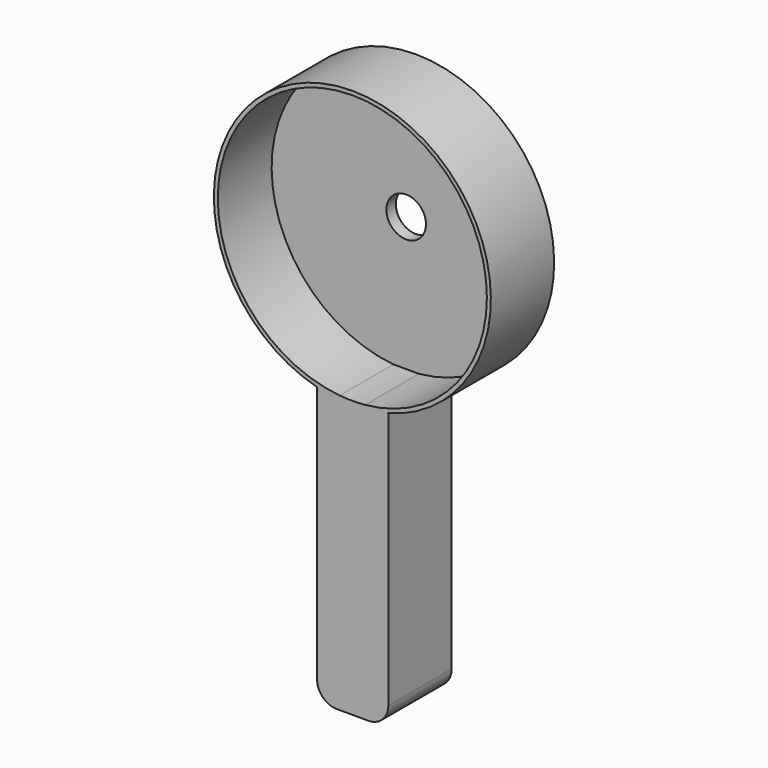
from build123d import *

# Parameters (mm, degrees)
F1_DEPTH = 20
F2_DEPTH = 20
F3_DEPTH = 3
F4_R     = 5
F5_DEPTH = 100


with BuildPart() as f1:
    # F0 (on Front) → F1 (new body)
    with BuildSketch(Plane.XZ):
        with BuildLine():
            ThreePointArc((-42.2376775657, 0.9527799487), (-23.4282681394, 13.4322820603), (-16.1492416263, 34.7992572542))
            ThreePointArc((-16.1492416263, 34.7992572542), (-72.5162168202, 62.5202307411), (-60.0608056868, 0.9527799487))
            Line((-60.0608056868, 0.9527799487), (-54.3766204398, 0.9527799487))
            ThreePointArc((-54.3766204398, 0.9527799487), (-74.0213766418, 59.9560742196), (-17.1492416263, 34.7992572542))
            ThreePointArc((-17.1492416263, 34.7992572542), (-25.9924246609, 11.9271222387), (-47.9218628128, 0.9527799487))
            Line((-47.9218628128, 0.9527799487), (-42.2376775657, 0.9527799487))
        make_face()
    extrude(amount=F1_DEPTH)

    # F0 (on Front) → F2 (join)
    with BuildSketch(Plane.XZ):
        with BuildLine():
            ThreePointArc((-42.2376775657, 0.9527799487), (-51.1492416263, -0.2007427458), (-60.0608056868, 0.9527799487))
            Line((-60.0608056868, 0.9527799487), (-60.0608056868, -64.0472200513))
            ThreePointArc((-60.0608056868, -64.0472200513), (-58.5963395928, -67.5827539572), (-55.0608056868, -69.0472200513))
            Line((-55.0608056868, -69.0472200513), (-47.0608056868, -69.0472200513))
            ThreePointArc((-47.0608056868, -69.0472200513), (-43.5252717809, -67.5827539572), (-42.0608056868, -64.0472200513))
            Line((-42.0608056868, -64.0472200513), (-42.0608056868, 0.9527799487))
            Line((-42.0608056868, 0.9527799487), (-42.2376775657, 0.9527799487))
        make_face()
        with BuildLine():
            Line((-54.3766204398, 0.9527799487), (-60.0608056868, 0.9527799487))
            ThreePointArc((-60.0608056868, 0.9527799487), (-51.1492416263, -0.2007427458), (-42.2376775657, 0.9527799487))
            Line((-42.2376775657, 0.9527799487), (-47.9218628128, 0.9527799487))
            ThreePointArc((-47.9218628128, 0.9527799487), (-51.1492416263, 0.7992572542), (-54.3766204398, 0.9527799487))
        make_face()
    extrude(amount=F2_DEPTH)

    # F0 (on Front) → F3 (join)
    with BuildSketch(Plane.XZ):
        with BuildLine():
            ThreePointArc((-17.1492416263, 34.7992572542), (-74.0213766418, 59.9560742196), (-54.3766204398, 0.9527799487))
            Line((-54.3766204398, 0.9527799487), (-47.9218628128, 0.9527799487))
            ThreePointArc((-47.9218628128, 0.9527799487), (-25.9924246609, 11.9271222387), (-17.1492416263, 34.7992572542))
        make_face()
    extrude(amount=F3_DEPTH)

    # F4 (on face) → F5 (cut)
    with BuildSketch(Plane.XZ.offset(3)):
        with Locations((-51.1492416263, 34.7992572542)):
            Circle(F4_R)
    extrude(amount=-F5_DEPTH, mode=Mode.SUBTRACT)


solid = f1.part
